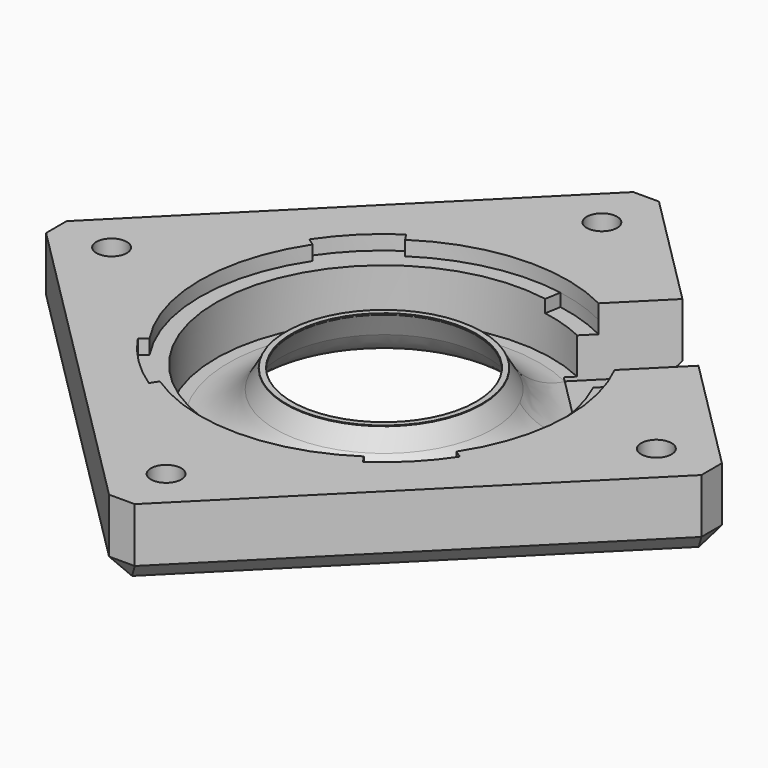
from build123d import *

# Parameters (mm, degrees)
SKETCH_R         = 10.15
SKETCH_R_2       = 1.675
PAD_DEPTH        = 8
SKETCH001_R      = 18.5
POCKET_DEPTH     = 7
POCKET001_DEPTH  = 1.6
POCKET004_DEPTH  = 3
CHAMFER_SIZE     = 2
POCKET002_DEPTH  = 7.4
SKETCH005_R      = 10.775
SKETCH005_R_2    = 10.15
PAD001_DEPTH     = 5.1
CHAMFER001_ANGLE = 64
CHAMFER001_SIZE  = 2.9
CHAMFER002_ANGLE = 60
CHAMFER002_SIZE  = 2.9
FILLET_R         = 6


with BuildPart() as part:
    # Sketch → Pad (new body)
    with BuildSketch(Plane.XY):
        Polygon((0, 37.5), (37.5, 0), (0, -37.5), (-37.5, 0), align=None)
        Circle(SKETCH_R, mode=Mode.SUBTRACT)
        with Locations((0, 30)):
            Circle(SKETCH_R_2, mode=Mode.SUBTRACT)
        with Locations((30, 0)):
            Circle(SKETCH_R_2, mode=Mode.SUBTRACT)
        with Locations((0, -30)):
            Circle(SKETCH_R_2, mode=Mode.SUBTRACT)
        with Locations((-30, 0)):
            Circle(SKETCH_R_2, mode=Mode.SUBTRACT)
    extrude(amount=-PAD_DEPTH)

    # Sketch001 → Pocket (cut)
    with BuildSketch(Plane.XY):
        Circle(SKETCH001_R)
    extrude(amount=-POCKET_DEPTH, mode=Mode.SUBTRACT)

    # Sketch002 → Pocket001 (cut)
    with BuildSketch(Plane.XY):
        with BuildLine():
            Line((-16.846352, 11.236678), (-17.67827, 11.791576))
            ThreePointArc((-11.732099, 17.717798), (-15.000749, 15.051247), (-17.67827, 11.791576))
            Line((-11.18, 16.884019), (-11.732099, 17.717798))
            ThreePointArc((16.897228, -11.160027), (14.310444, 14.327376), (-11.18, 16.884019))
            Line((16.897228, -11.160027), (17.731659, -11.711139))
            ThreePointArc((11.812473, -17.664314), (15.068975, -14.98294), (17.731659, -11.711139))
            Line((11.256591, -16.833052), (11.812473, -17.664314))
            ThreePointArc((-11.17334, -16.888427), (0.049993, -20.249938), (11.256591, -16.833052))
            Line((-11.17334, -16.888427), (-11.72511, -17.722423))
            ThreePointArc((-17.673618, -11.798547), (-14.994812, -15.057162), (-11.72511, -17.722423))
            Line((-16.841919, -11.243321), (-17.673618, -11.798547))
            ThreePointArc((-16.846352, 11.236678), (-20.25, -0.003993), (-16.841919, -11.243321))
        make_face()
    extrude(amount=-POCKET001_DEPTH, mode=Mode.SUBTRACT)

    # Sketch004 → Pocket004 (cut)
    with BuildSketch(Plane.XY):
        with BuildLine():
            Line((3.47625, 19.949391), (3.09, 17.732792))
            ThreePointArc((8.300497, 15.971905), (5.762902, 17.052535), (3.09, 17.732792))
            Line((8.300497, 15.971905), (9.338059, 17.968393))
            ThreePointArc((9.338059, 17.968393), (6.483264, 19.184102), (3.47625, 19.949391))
        make_face()
    extrude(amount=-POCKET004_DEPTH, mode=Mode.SUBTRACT)

    # Chamfer
    chamfer_edges = [part.edges().sort_by_distance(p)[0] for p in [
        (18.75, -18.75, -8),
        (37.5, 0, -4),
        (0, -37.5, -4),
        (-18.75, -18.75, -8),
        (-37.5, 0, -4),
        (-18.75, 18.75, -8),
        (0, 37.5, -4),
        (18.75, 18.75, -8),
    ]]
    chamfer(chamfer_edges, length=CHAMFER_SIZE)

    # Sketch003 → Pocket002 (cut)
    with BuildSketch(Plane.XY):
        Polygon((7.071068, 15.909903), (15.909903, 7.071068), (26.516504, 17.67767), (17.67767, 26.516504), align=None)
    extrude(amount=-POCKET002_DEPTH, mode=Mode.SUBTRACT)

    # Sketch005 (on DatumPlane) → Pad001 (join)
    with BuildSketch(Plane.XY.offset(-7)):
        Circle(SKETCH005_R)
        Circle(SKETCH005_R_2, mode=Mode.SUBTRACT)
    extrude(amount=PAD001_DEPTH)

    # Chamfer001
    chamfer001_edges = [part.edges().sort_by_distance(p)[0] for p in [
        (-10.15, 0, -8),
    ]]
    chamfer001_side = part.faces().sort_by_distance((16.642355, -16.642355, -8))[0]
    chamfer(chamfer001_edges, length=CHAMFER001_SIZE, angle=CHAMFER001_ANGLE, reference=chamfer001_side)

    # Chamfer002
    chamfer002_edges = [part.edges().sort_by_distance(p)[0] for p in [
        (-10.775, 0, -7),
    ]]
    chamfer002_side = part.faces().sort_by_distance((-15.182869, -9.62516, -7))[0]
    chamfer(chamfer002_edges, length=CHAMFER002_SIZE, angle=CHAMFER002_ANGLE, reference=chamfer002_side)

    # Fillet
    fillet_edges = [part.edges().sort_by_distance(p)[0] for p in [
        (-13.05, 0, -8),
        (-13.675, 0, -7),
    ]]
    fillet(fillet_edges, radius=FILLET_R)


solid = part.part
